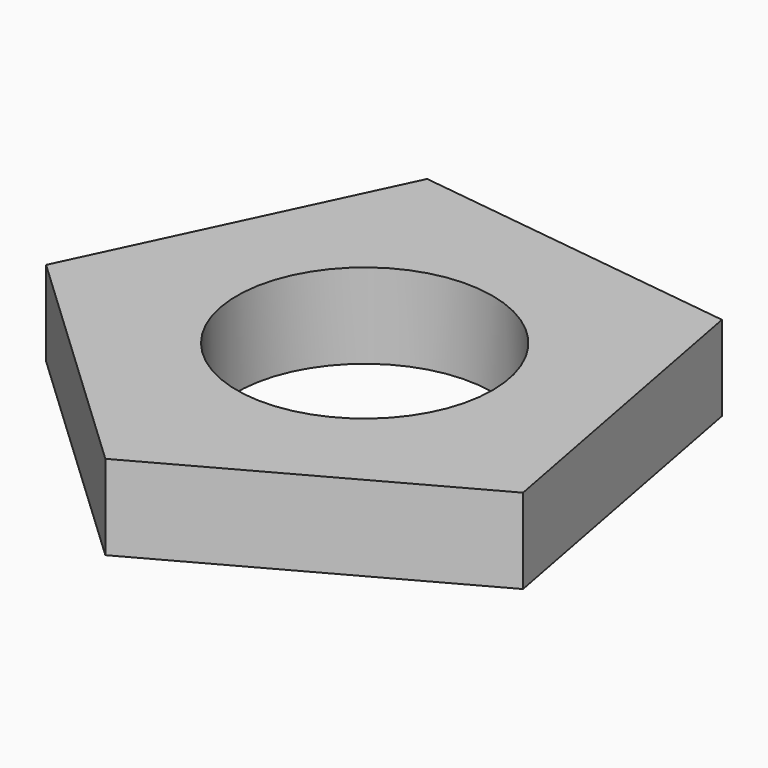
from build123d import *

# Parameters (mm, degrees)
F2_DEPTH = 7
F3_DEPTH = 2.6
F0_R     = 11
F4_DEPTH = 25
F5_DEPTH = 2.3


with BuildPart() as f2:
    # F1 (on Top) → F2 (new body)
    with BuildSketch(Plane.XY):
        Polygon((-23.813827268, -4.4963938878), (-3.0825526201, -24.0377577259), (21.9087049767, -10.3597574001), (16.6228769451, 17.6350755374), (-11.6352020338, 21.2588334764), align=None)
    extrude(amount=-F2_DEPTH)

    # F3 (add): a face of the model
    f3_faces = [f2.faces().sort_by_distance(p)[0] for p in [
        (0, 0, -7),
    ]]
    extrude(f3_faces, amount=F3_DEPTH)

    # F0 (on Top) → F4 (cut)
    with BuildSketch(Plane.XY):
        Circle(F0_R)
    extrude(amount=-F4_DEPTH, mode=Mode.SUBTRACT)

    # F5 (cut): a face of the model
    f5_faces = [f2.faces().sort_by_distance(p)[0] for p in [
        (-13.0067285738, -13.7987330141, -9.6),
    ]]
    extrude(f5_faces, amount=-F5_DEPTH, mode=Mode.SUBTRACT)


solid = f2.part
